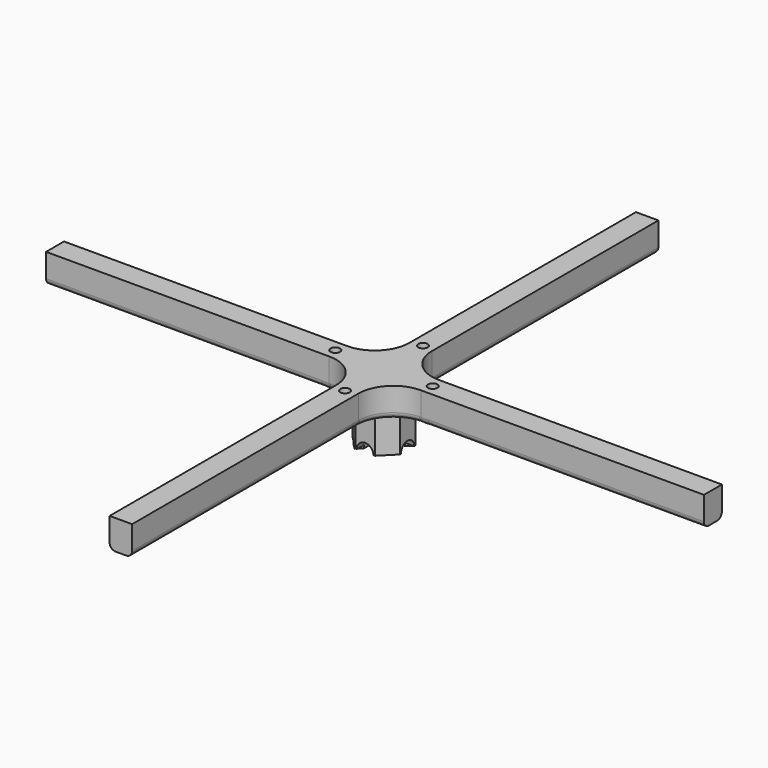
from build123d import *

# Parameters (mm, degrees)
CLONE2D_R       = 1.6
PAD009_DEPTH    = 10
PAD010_DEPTH    = 11.8
SKETCH029_R     = 2.8
POCKET008_DEPTH = 119.401
SKETCH030_R     = 2.8
POCKET009_DEPTH = 119.401
SKETCH031_R     = 2.35
POCKET010_DEPTH = 5
SKETCH032_R     = 2.35
POCKET011_DEPTH = 12
FILLET007_R     = 2
PAD012_DEPTH    = 1
FILLET008_R     = 1.2


with BuildPart() as part:
    # Clone2D → Pad009 (new body)
    with BuildSketch(Plane(origin=(0, 0, -2), x_dir=(1, 0, 0), z_dir=(0, 0, -1))):
        with BuildLine():
            Line((-111.4, 3.8), (-111.4, -3.8))
            Line((-111.4, -3.8), (-15.556349, -3.8))
            ThreePointArc((-15.556349, -3.8), (-7.243355, -7.243355), (-3.8, -15.556349))
            Line((-3.8, -15.556349), (-3.8, -111.4))
            Line((-3.8, -111.4), (3.8, -111.4))
            Line((3.8, -111.4), (3.8, -15.556349))
            ThreePointArc((3.8, -15.556349), (7.243355, -7.243355), (15.556349, -3.8))
            Line((15.556349, -3.8), (111.4, -3.8))
            Line((111.4, -3.8), (111.4, 3.8))
            Line((111.4, 3.8), (15.556349, 3.8))
            ThreePointArc((15.556349, 3.8), (7.243355, 7.243355), (3.8, 15.556349))
            Line((3.8, 15.556349), (3.8, 111.4))
            Line((3.8, 111.4), (-3.8, 111.4))
            Line((-3.8, 111.4), (-3.8, 15.556349))
            ThreePointArc((-3.8, 15.556349), (-7.243355, 7.243355), (-15.556349, 3.8))
            Line((-15.556349, 3.8), (-111.4, 3.8))
        make_face()
        with Locations((-16.5, 0)):
            Circle(CLONE2D_R, mode=Mode.SUBTRACT)
        with Locations((0, -16.5)):
            Circle(CLONE2D_R, mode=Mode.SUBTRACT)
        with Locations((16.5, 0)):
            Circle(CLONE2D_R, mode=Mode.SUBTRACT)
        with Locations((0, 16.5)):
            Circle(CLONE2D_R, mode=Mode.SUBTRACT)
    extrude(amount=PAD009_DEPTH)

    # Sketch026 (on Face22 of Pad009) → Pad010 (join)
    with BuildSketch(Plane(origin=(0, 0, -12), x_dir=(1, 0, 0), z_dir=(0, 0, -1))):
        Polygon((3.313708, -8), (8, -3.313708), (8, 3.313708), (3.313708, 8), (-3.313708, 8), (-8, 3.313708), (-8, -3.313708), (-3.313708, -8), align=None)
    extrude(amount=PAD010_DEPTH)

    # Sketch029 (on Face30 of Pad010) → Pocket008 (cut, through all)
    with BuildSketch(Plane(origin=(0, 8, -2), x_dir=(1, 0, 0), z_dir=(0, 1, 0))):
        with Locations((0, 21.8)):
            Circle(SKETCH029_R)
    extrude(amount=-POCKET008_DEPTH, mode=Mode.SUBTRACT)

    # Sketch030 (on Face28 of Pocket008) → Pocket009 (cut, through all)
    with BuildSketch(Plane(origin=(-8, 0, -2), x_dir=(0, 1, 0), z_dir=(-1, 0, 0))):
        with Locations((0, 21.8)):
            Circle(SKETCH030_R)
    extrude(amount=-POCKET009_DEPTH, mode=Mode.SUBTRACT)

    # Sketch031 (on Face5 of Pocket009) → Pocket010 (cut)
    with BuildSketch(Plane(origin=(0, 0, -12), x_dir=(1, 0, 0), z_dir=(0, 0, -1))):
        with Locations((0, 16.5)):
            Circle(SKETCH031_R)
        with Locations((16.5, 0)):
            Circle(SKETCH031_R)
        with Locations((0, -16.5)):
            Circle(SKETCH031_R)
        with Locations((-16.5, 0)):
            Circle(SKETCH031_R)
    extrude(amount=-POCKET010_DEPTH, mode=Mode.SUBTRACT)

    # Sketch032 (on Face42 of Pocket010) → Pocket011 (cut)
    with BuildSketch(Plane(origin=(0, 0, -23.8), x_dir=(1, 0, 0), z_dir=(0, 0, -1))):
        Circle(SKETCH032_R)
    extrude(amount=-POCKET011_DEPTH, mode=Mode.SUBTRACT)

    # Fillet007
    fillet007_edges = [part.edges().sort_by_distance(p)[0] for p in [
        (-3.8, 63.478175, -12),
        (-63.478175, -3.8, -12),
        (3.8, -63.478175, -12),
        (63.478175, 3.8, -12),
    ]]
    fillet(fillet007_edges, radius=FILLET007_R)

    # Sketch033 (on Face73 of Fillet007) → Pad012 (join)
    with BuildSketch(Plane(origin=(0, 0, -23.8), x_dir=(1, 0, 0), z_dir=(0, 0, -1))):
        Polygon((-4.596194, 6.717514), (-6.717514, 4.596194), (-4.92132, 2.8), (-2.8, 2.8), (-2.8, 4.92132), align=None)
        Polygon((2.8, -2.8), (2.8, -4.92132), (4.596194, -6.717514), (6.717514, -4.596194), (4.92132, -2.8), align=None)
    extrude(amount=PAD012_DEPTH)

    # Fillet008
    fillet008_edges = [part.edges().sort_by_distance(p)[0] for p in [
        (8, 0, -12),
        (0, 8, -12),
        (-8, 0, -12),
        (0, -8, -12),
    ]]
    fillet(fillet008_edges, radius=FILLET008_R)


with BuildPart() as part_1:
    # Body013 placement: moved
    add(part.part.moved(Location((0, 0, -58))))


solid = part_1.part
